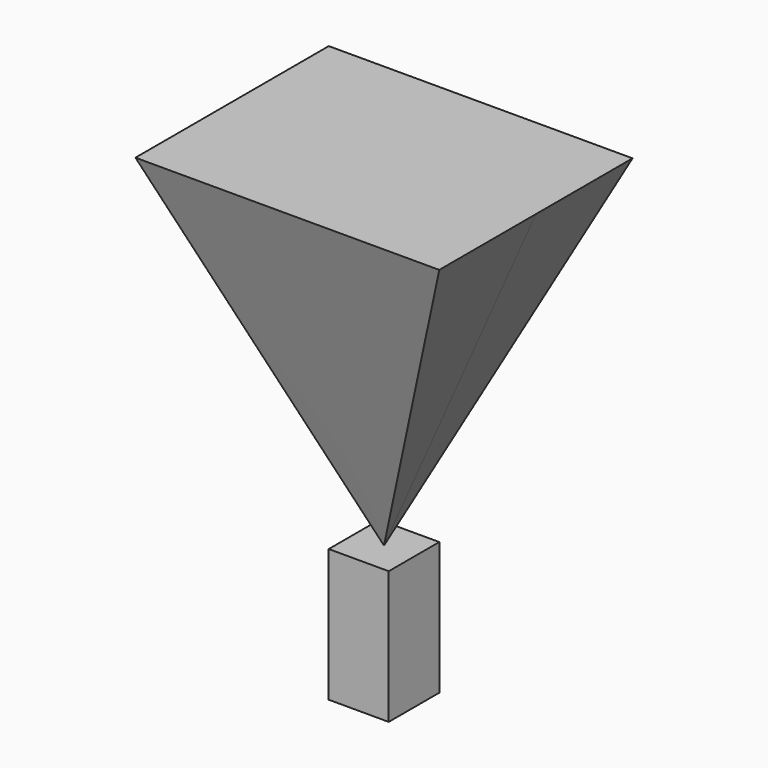
from build123d import *

# Parameters (mm, degrees)
F0_W     = 48.26
F0_H     = 50.8
F1_DEPTH = 106.68
F6_W     = 244.270266
F6_H     = 194.283614
F8_R     = 0.005


with BuildPart() as f1:
    # F0 (on Top) → F1 (new body)
    with BuildSketch(Plane.XY):
        Rectangle(F0_W, F0_H)
    extrude(amount=F1_DEPTH)


with BuildPart() as f9:
    # F6 (on offset) → F9 section 0
    with BuildSketch(Plane.XY.offset(381)):
        Rectangle(F6_W, F6_H)
    # F8 (on plane+point) → F9 section 1
    with BuildSketch(Plane.XY.offset(106.68)):
        Circle(F8_R)
    loft()


solid = Compound([f1.part, f9.part])
